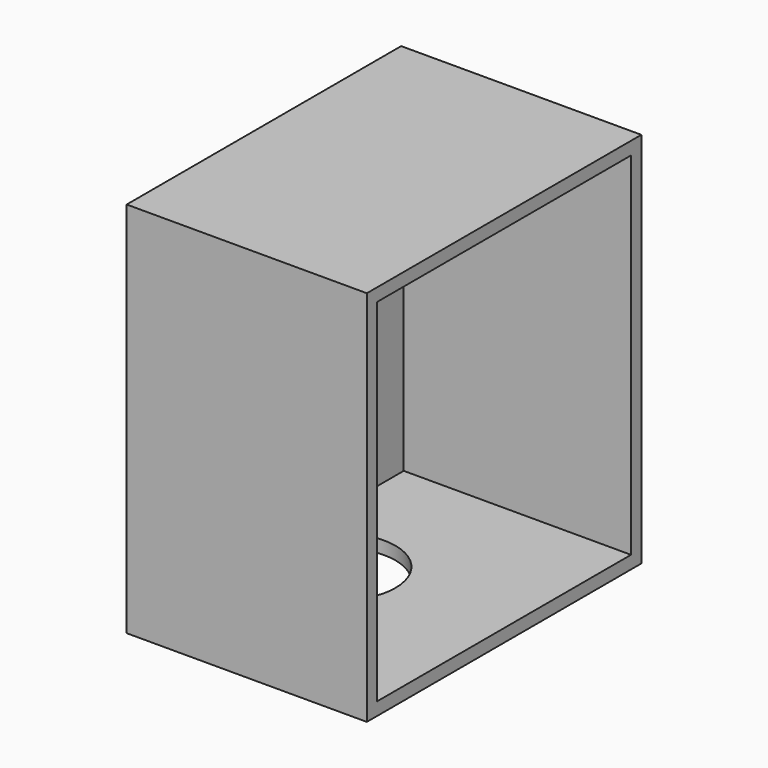
from build123d import *

# Parameters (mm, degrees)
F0_W     = 213.36
F0_H     = 335.28
F1_DEPTH = 304.8
F2_T     = -11.4554
F3_R     = 50.8
F4_DEPTH = 11.4554


with BuildPart() as f1:
    # F0 (on Front) → F1 (new body)
    with BuildSketch(Plane.XZ):
        Rectangle(F0_W, F0_H)
    extrude(amount=F1_DEPTH)

    # F2
    f2_openings = [f1.faces().sort_by_distance(p)[0] for p in [
        (106.68, -152.4, 0),
    ]]
    offset(amount=F2_T, openings=f2_openings)

    # F3 (on face) → F4 (cut, through all)
    with BuildSketch(Plane(origin=(0, 0, -167.64), x_dir=(1, 0, 0), z_dir=(0, 0, -1))):
        with Locations((-40.64, 152.4)):
            Circle(F3_R)
    extrude(amount=-F4_DEPTH, mode=Mode.SUBTRACT)


solid = f1.part
